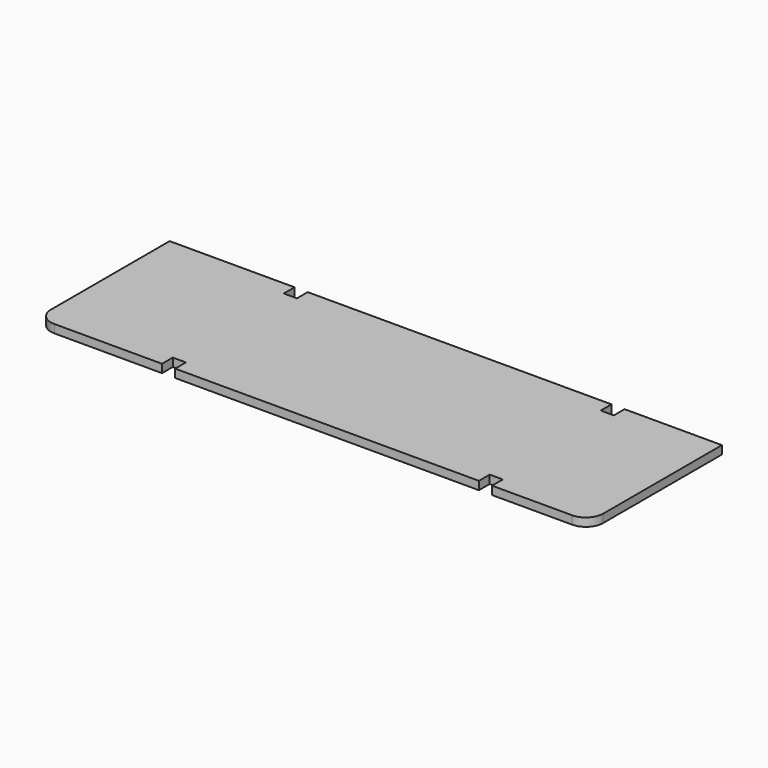
from build123d import *

# Parameters (mm, degrees)
F1_DEPTH = 6


with BuildPart() as f1:
    # F0 (on Top) → F1 (new body, symmetric)
    with BuildSketch(Plane.XY):
        with BuildLine():
            Line((-211.98713, 166.029271), (-392.98713, 166.029271))
            Line((-392.98713, 166.029271), (-392.98713, -48.970729))
            ThreePointArc((-392.98713, -48.970729), (-385.664799, -66.648399), (-367.98713, -73.970729))
            Line((-367.98713, -73.970729), (-211.98713, -73.970729))
            Line((-211.98713, -73.970729), (-211.98713, -54.470729))
            Line((-211.98713, -54.470729), (-192.98713, -54.470729))
            Line((-192.98713, -54.470729), (-192.98713, -73.970729))
            Line((-192.98713, -73.970729), (247.01287, -73.970729))
            Line((247.01287, -73.970729), (247.01287, -54.470729))
            Line((247.01287, -54.470729), (266.01287, -54.470729))
            Line((266.01287, -54.470729), (266.01287, -73.970729))
            Line((266.01287, -73.970729), (382.01287, -73.970729))
            ThreePointArc((382.01287, -73.970729), (399.69054, -66.648399), (407.01287, -48.970729))
            Line((407.01287, -48.970729), (407.01287, 166.029271))
            Line((407.01287, 166.029271), (266.01287, 166.029271))
            Line((266.01287, 166.029271), (266.01287, 146.529271))
            Line((266.01287, 146.529271), (247.01287, 146.529271))
            Line((247.01287, 146.529271), (247.01287, 166.029271))
            Line((247.01287, 166.029271), (-192.98713, 166.029271))
            Line((-192.98713, 166.029271), (-192.98713, 146.529271))
            Line((-192.98713, 146.529271), (-211.98713, 146.529271))
            Line((-211.98713, 146.529271), (-211.98713, 166.029271))
        make_face()
    extrude(amount=F1_DEPTH, both=True)


solid = f1.part
